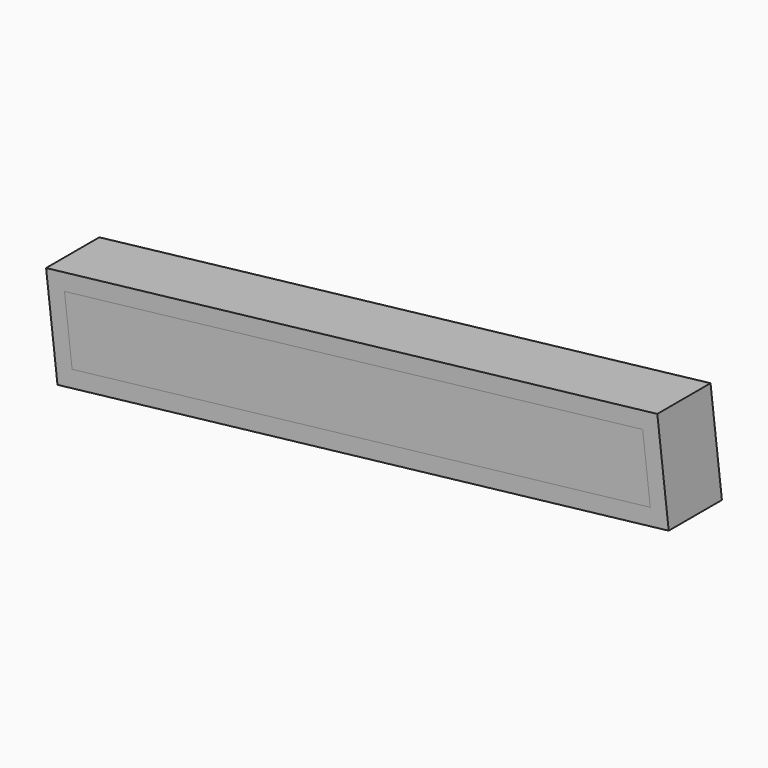
from build123d import *

# Parameters (mm, degrees)
F1_DEPTH = 100
F3_DEPTH = 25


with BuildPart() as f1:
    # F0 (on Front) → F1 (new body)
    with BuildSketch(Plane.XZ):
        Polygon((879.817416, 227.038133), (-39.121912, 121.323848), (-21.979055, -27.693341), (896.960273, 78.020945), align=None)
        Polygon((869.266933, 100), (0, 0), (-11.428571, 99.344792), (857.838361, 199.344792), align=None, mode=Mode.SUBTRACT)
    extrude(amount=F1_DEPTH)


with BuildPart() as f3:
    # F2 (on face) → F3 (new body)
    with BuildSketch(Plane.XZ.offset(100)):
        Polygon((857.838361, 199.344792), (-11.428571, 99.344792), (0, 0), (869.266933, 100), align=None)
    extrude(amount=-F3_DEPTH)


solid = Compound([f1.part, f3.part])
